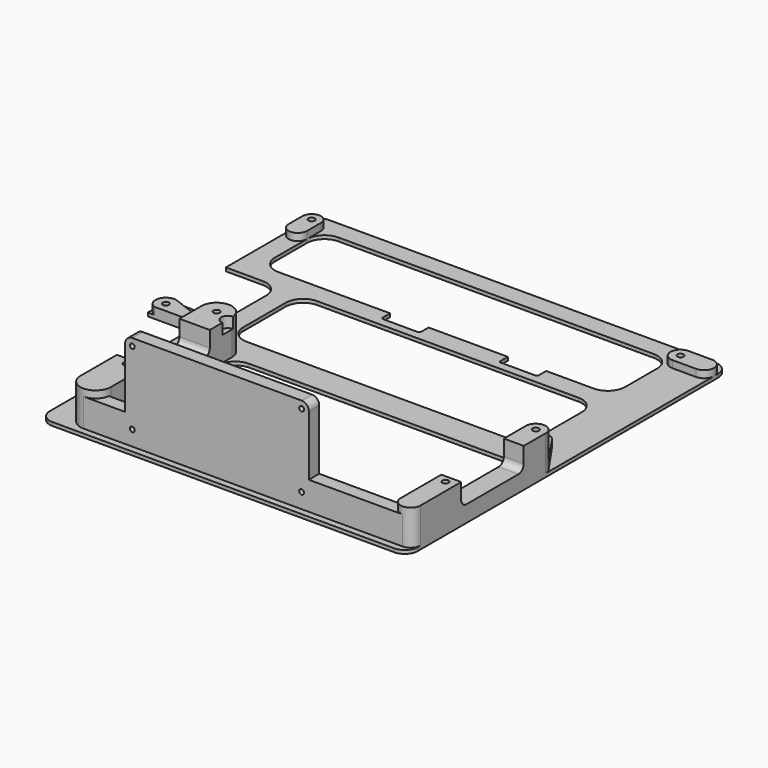
from build123d import *

# Parameters (mm, degrees)
SKETCH_R          = 1.45
PAD001_DEPTH      = 1.6
SKETCH001_R       = 1.45
PAD002_DEPTH      = 16.25
POCKET_DEPTH      = 190.001
POCKET_DEPTH_BACK = 0.001
SKETCH003_R       = 1.45
PAD003_DEPTH      = 3.4
POCKET001_DEPTH   = 5
POCKET002_DEPTH   = 10
SKETCH031_R       = 1.125
PAD017_DEPTH      = 6
POCKET013_DEPTH   = 4
SKETCH033_R       = 3
POCKET014_DEPTH   = 5


with BuildPart() as part:
    # Sketch → Pad001 (new body)
    with BuildSketch(Plane.XY):
        with BuildLine():
            Line((12.25, 182), (190.25, 182))
            ThreePointArc((196.25, 176), (194.492641, 180.242641), (190.25, 182))
            Line((196.25, 176), (196.25, 3))
            ThreePointArc((190.25, -3), (194.492641, -1.242641), (196.25, 3))
            Line((190.25, -3), (12.25, -3))
            ThreePointArc((6.25, 3), (8.007359, -1.242641), (12.25, -3))
            Line((6.25, 3), (6.25, 97))
            Line((23.25, 97), (6.25, 97))
            ThreePointArc((23.25, 97), (28.906854, 99.343146), (31.25, 105))
            Line((31.25, 122), (31.25, 105))
            ThreePointArc((31.25, 122), (28.906854, 127.656854), (23.25, 130))
            Line((6.25, 130), (23.25, 130))
            Line((6.25, 130), (6.25, 176))
            ThreePointArc((12.25, 182), (8.007359, 180.242641), (6.25, 176))
        make_face()
        with Locations((11, 173.49762)):
            Circle(SKETCH_R, mode=Mode.SUBTRACT)
        with Locations((11, 89.49762)):
            Circle(SKETCH_R, mode=Mode.SUBTRACT)
        with Locations((180.742493, 173.605331)):
            Circle(SKETCH_R, mode=Mode.SUBTRACT)
        with Locations((181.761108, 91.056091)):
            Circle(SKETCH_R, mode=Mode.SUBTRACT)
        with Locations((44.67, 76.67)):
            Circle(SKETCH_R, mode=Mode.SUBTRACT)
        with Locations((44.67, 24.67)):
            Circle(SKETCH_R, mode=Mode.SUBTRACT)
        with Locations((191.67, 24.67)):
            Circle(SKETCH_R, mode=Mode.SUBTRACT)
        with Locations((191.67, 76.67)):
            Circle(SKETCH_R, mode=Mode.SUBTRACT)
        with BuildLine():
            ThreePointArc((40.25, 97.49762), (42.593146, 91.840766), (48.25, 89.49762))
            Line((168.624548, 89.49762), (48.25, 89.49762))
            ThreePointArc((168.624548, 89.49762), (174.281402, 91.840766), (176.624548, 97.49762))
            Line((176.624548, 122), (176.624548, 97.49762))
            ThreePointArc((176.624548, 122), (174.281402, 127.656854), (168.624548, 130))
            Line((48.25, 130), (168.624548, 130))
            ThreePointArc((48.25, 130), (42.593146, 127.656854), (40.25, 122))
            Line((40.25, 97.49762), (40.25, 122))
        make_face(mode=Mode.SUBTRACT)
        with BuildLine():
            ThreePointArc((15.25, 147), (17.593146, 141.343146), (23.25, 139))
            Line((168.563514, 139), (23.25, 139))
            ThreePointArc((168.563514, 139), (174.220369, 141.343146), (176.563514, 147))
            Line((176.563514, 165.49762), (176.563514, 147))
            ThreePointArc((176.563514, 165.49762), (174.220369, 171.154474), (168.563514, 173.49762))
            Line((23.25, 173.49762), (168.563514, 173.49762))
            ThreePointArc((23.25, 173.49762), (17.593146, 171.154474), (15.25, 165.49762))
            Line((15.25, 147), (15.25, 165.49762))
        make_face(mode=Mode.SUBTRACT)
        with BuildLine():
            ThreePointArc((51.67, 14), (54.013146, 8.343146), (59.67, 6))
            Line((176.67, 6), (59.67, 6))
            ThreePointArc((176.67, 6), (182.326854, 8.343146), (184.67, 14))
            Line((184.67, 68.67), (184.67, 14))
            ThreePointArc((184.67, 68.67), (182.326854, 74.326854), (176.67, 76.67))
            Line((59.67, 76.67), (176.67, 76.67))
            ThreePointArc((59.67, 76.67), (54.013146, 74.326854), (51.67, 68.67))
            Line((51.67, 14), (51.67, 68.67))
        make_face(mode=Mode.SUBTRACT)
    extrude(amount=-PAD001_DEPTH)

    # Sketch001 → Pad002 (join)
    with BuildSketch(Plane.XY):
        with BuildLine():
            ThreePointArc((51.67, 76.67), (44.67, 83.67), (37.67, 76.67))
            Line((37.67, 76.67), (37.67, 7))
            ThreePointArc((37.67, 7), (44.67, 0), (51.67, 7))
            Line((51.67, 7), (51.67, 76.67))
        make_face()
        with Locations((44.67, 76.67)):
            Circle(SKETCH001_R, mode=Mode.SUBTRACT)
        with Locations((44.67, 24.67)):
            Circle(SKETCH001_R, mode=Mode.SUBTRACT)
        with BuildLine():
            ThreePointArc((196.25, 76.67), (191.67, 81.25), (187.09, 76.67))
            Line((187.09, 76.67), (187.09, 4.58))
            ThreePointArc((187.09, 4.58), (191.67, 0), (196.25, 4.58))
            Line((196.25, 4.58), (196.25, 76.67))
        make_face()
        with Locations((191.67, 76.67)):
            Circle(SKETCH001_R, mode=Mode.SUBTRACT)
        with Locations((191.67, 24.67)):
            Circle(SKETCH001_R, mode=Mode.SUBTRACT)
    extrude(amount=PAD002_DEPTH)

    # Sketch002 (on Face56 of Pad002) → Pocket (cut, two sides)
    with BuildSketch(Plane.YZ.offset(196.25)) as pocket_sk:
        with BuildLine():
            ThreePointArc((31, 22), (28.87868, 21.12132), (28, 19))
            Line((28, 9), (28, 19))
            ThreePointArc((28, 9), (28.87868, 6.87868), (31, 6))
            Line((61, 6), (31, 6))
            ThreePointArc((61, 6), (63.12132, 6.87868), (64, 9))
            Line((64, 19), (64, 9))
            ThreePointArc((64, 19), (63.12132, 21.12132), (61, 22))
            Line((31, 22), (61, 22))
        make_face()
    extrude(amount=-POCKET_DEPTH, mode=Mode.SUBTRACT)
    extrude(pocket_sk.sketch, amount=POCKET_DEPTH_BACK, mode=Mode.SUBTRACT)

    # Sketch003 → Pad003 (join)
    with BuildSketch(Plane.XY.offset(-0.1)):
        with BuildLine():
            ThreePointArc((185.53296, 93.654078), (179.163121, 94.827943), (177.989256, 88.458104))
            Line((177.989256, 88.458104), (187.898148, 74.072013))
            ThreePointArc((187.898148, 74.072013), (194.267987, 72.898148), (195.441852, 79.267987))
            Line((195.441852, 79.267987), (185.53296, 93.654078))
        make_face()
        with Locations((191.67, 76.67)):
            Circle(SKETCH003_R, mode=Mode.SUBTRACT)
        with Locations((181.761108, 91.056091)):
            Circle(SKETCH003_R, mode=Mode.SUBTRACT)
        with BuildLine():
            ThreePointArc((12.691088, 93.936395), (6.561225, 91.188708), (9.308912, 85.058845))
            Line((9.308912, 85.058845), (42.978912, 72.231225))
            ThreePointArc((42.978912, 72.231225), (49.108775, 74.978912), (46.361088, 81.108775))
            Line((46.361088, 81.108775), (12.691088, 93.936395))
        make_face()
        with Locations((44.67, 76.67)):
            Circle(SKETCH003_R, mode=Mode.SUBTRACT)
        with Locations((11, 89.49762)):
            Circle(SKETCH003_R, mode=Mode.SUBTRACT)
        with BuildLine():
            ThreePointArc((15.25, 173.49762), (11, 177.74762), (6.75, 173.49762))
            Line((6.75, 173.49762), (6.75, 165.49762))
            ThreePointArc((6.75, 165.49762), (11, 161.24762), (15.25, 165.49762))
            Line((15.25, 165.49762), (15.25, 173.49762))
        make_face()
        with Locations((11, 173.49762)):
            Circle(SKETCH003_R, mode=Mode.SUBTRACT)
        with BuildLine():
            ThreePointArc((180.742493, 178.185331), (176.162493, 173.605331), (180.742493, 169.025331))
            Line((180.742493, 169.025331), (191.67, 169.025331))
            ThreePointArc((191.67, 169.025331), (196.25, 173.605331), (191.67, 178.185331))
            Line((191.67, 178.185331), (180.742493, 178.185331))
        make_face()
        with Locations((180.742493, 173.605331)):
            Circle(SKETCH003_R, mode=Mode.SUBTRACT)
    extrude(amount=PAD003_DEPTH)

    # Sketch004 → Pocket001 (cut)
    with BuildSketch(Plane.XY):
        with BuildLine():
            ThreePointArc((75.723694, 140.85524), (75.016587, 140.562347), (74.723694, 139.85524))
            Line((74.723694, 134.85524), (74.723694, 139.85524))
            ThreePointArc((74.723694, 134.85524), (75.016587, 134.148133), (75.723694, 133.85524))
            Line((91.423694, 133.85524), (75.723694, 133.85524))
            ThreePointArc((91.423694, 133.85524), (92.130801, 134.148133), (92.423694, 134.85524))
            Line((92.423694, 139.85524), (92.423694, 134.85524))
            ThreePointArc((92.423694, 139.85524), (92.130801, 140.562347), (91.423694, 140.85524))
            Line((75.723694, 140.85524), (91.423694, 140.85524))
        make_face()
        with BuildLine():
            ThreePointArc((129.923694, 140.85524), (129.216587, 140.562347), (128.923694, 139.85524))
            Line((128.923694, 134.85524), (128.923694, 139.85524))
            ThreePointArc((128.923694, 134.85524), (129.216587, 134.148133), (129.923694, 133.85524))
            Line((145.623694, 133.85524), (129.923694, 133.85524))
            ThreePointArc((145.623694, 133.85524), (146.330801, 134.148133), (146.623694, 134.85524))
            Line((146.623694, 139.85524), (146.623694, 134.85524))
            ThreePointArc((146.623694, 139.85524), (146.330801, 140.562347), (145.623694, 140.85524))
            Line((129.923694, 140.85524), (145.623694, 140.85524))
        make_face()
    extrude(amount=-POCKET001_DEPTH, mode=Mode.SUBTRACT)

    # Sketch008 → Pocket002 (cut, symmetric)
    with BuildSketch(Plane.XY):
        with BuildLine():
            Line((26.73, 3), (26.73, 85.058845))
            Line((26.73, 85.058845), (-23.27, 85.058845))
            Line((-23.27, 85.058845), (-23.27, -53))
            Line((-23.27, -53), (32.73, -53))
            Line((32.73, -53), (32.73, -3))
            ThreePointArc((26.73, 3), (28.487359, -1.242641), (32.73, -3))
        make_face()
    extrude(amount=POCKET002_DEPTH, both=True, mode=Mode.SUBTRACT)

    # Sketch031 → Pad017 (join)
    with BuildSketch(Plane.XZ.offset(-6)):
        with BuildLine():
            Line((44.67, 0), (191.67, 0))
            Line((191.67, 0), (191.67, 13))
            Line((191.67, 13), (148.458463, 13))
            Line((148.458463, 13), (148.458463, 40.730738))
            ThreePointArc((148.458463, 40.730738), (147.491915, 43.06419), (145.158463, 44.030738))
            Line((145.158463, 44.030738), (67.158463, 44.030738))
            ThreePointArc((67.158463, 44.030738), (64.825011, 43.06419), (63.858463, 40.730738))
            Line((63.858463, 40.730738), (63.858463, 13))
            Line((63.858463, 13), (44.67, 13))
            Line((44.67, 13), (44.67, 0))
        make_face()
        with Locations((67.158463, 40.730738)):
            Circle(SKETCH031_R, mode=Mode.SUBTRACT)
        with Locations((67.158463, 6.980738)):
            Circle(SKETCH031_R, mode=Mode.SUBTRACT)
        with Locations((145.158463, 40.730738)):
            Circle(SKETCH031_R, mode=Mode.SUBTRACT)
        with Locations((145.158463, 6.980738)):
            Circle(SKETCH031_R, mode=Mode.SUBTRACT)
    extrude(amount=PAD017_DEPTH)

    # Sketch032 (on Face13 of Pad017) → Pocket013 (cut)
    with BuildSketch(Plane(origin=(0, 6, 0), x_dir=(-1, 0, 0), z_dir=(0, 1, 0))):
        with BuildLine():
            Line((-64.858463, 37.430738), (-64.858463, 13.030738))
            Line((-64.858463, 13.030738), (-95.458463, 13.030738))
            Line((-95.458463, 13.030738), (-95.458463, 43.030738))
            Line((-95.458463, 43.030738), (-70.458463, 43.030738))
            Line((-70.458463, 43.030738), (-70.458463, 40.730738))
            ThreePointArc((-70.458463, 40.730738), (-69.491914, 38.397285), (-67.158461, 37.430738))
            Line((-67.158461, 37.430738), (-64.858463, 37.430738))
        make_face()
    extrude(amount=-POCKET013_DEPTH, mode=Mode.SUBTRACT)

    # Sketch033 (on Face113 of Pocket013) → Pocket014 (cut)
    with BuildSketch(Plane.XY.offset(16.25)):
        with Locations((51.67, 74.25)):
            Circle(SKETCH033_R)
    extrude(amount=-POCKET014_DEPTH, mode=Mode.SUBTRACT)


with BuildPart() as part_1:
    # Body001 placement: moved
    add(part.part.moved(Location((0, 0, -3.4))))


solid = part_1.part
